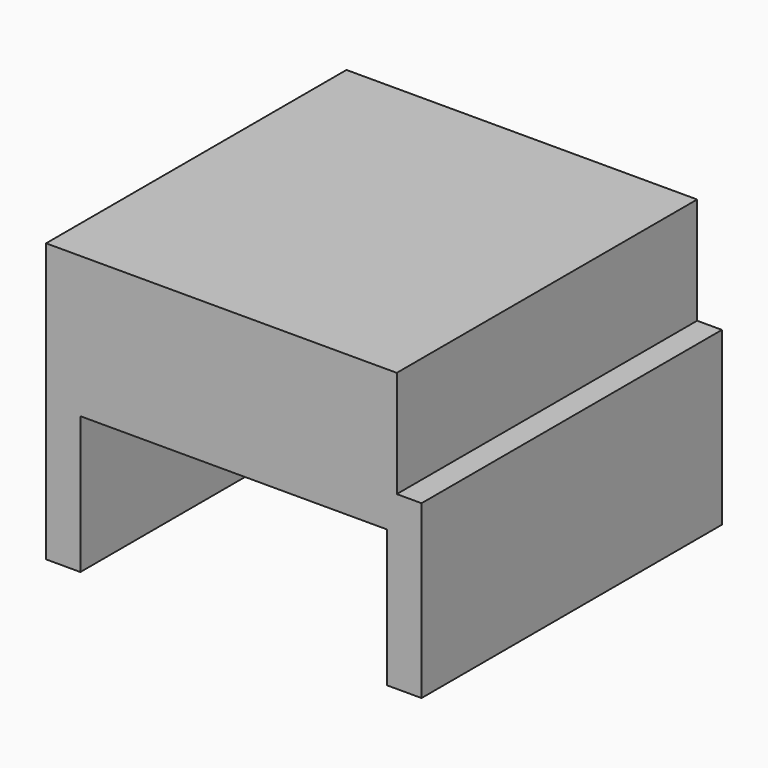
from build123d import *

# Parameters (mm, degrees)
F0_W     = 584.2
F0_H     = 177.8
F1_DEPTH = 312.7375


with BuildPart() as f1:
    # F0 (on Front) → F1 (new body, symmetric)
    with BuildSketch(Plane.XZ):
        with Locations((151.479768, 88.9)):
            Rectangle(F0_W, F0_H)
        Polygon((443.579768, 0), (-140.620232, 0), (-140.620232, -285.75), (-83.470232, -285.75), (-83.470232, -57.15), (427.704768, -57.15), (427.704768, -285.75), (484.854768, -285.75), (484.854768, 0), align=None)
    extrude(amount=F1_DEPTH, both=True)


solid = f1.part
